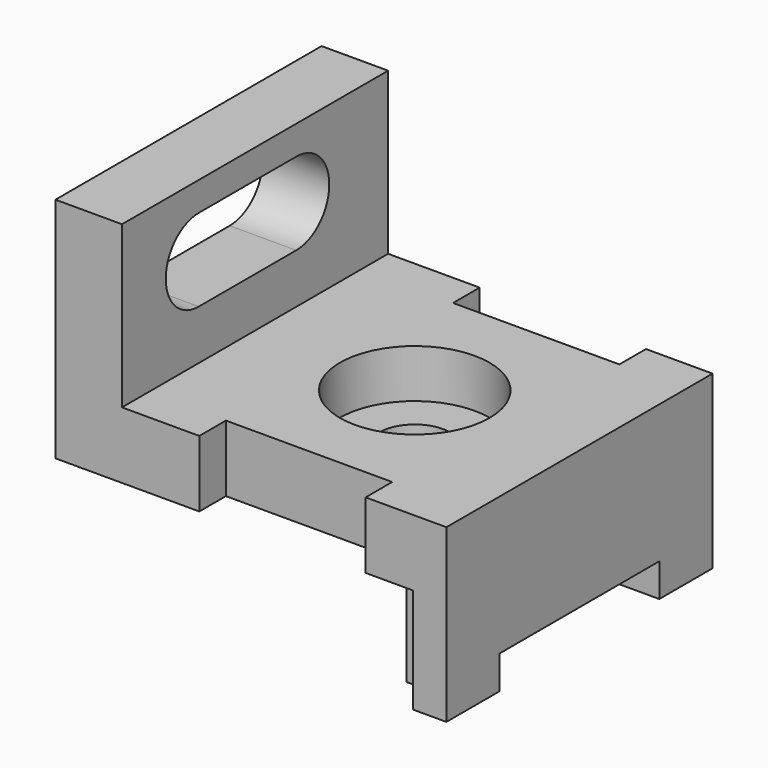
from build123d import *

# Parameters (mm, degrees)
F1_DEPTH  = 63.5
F2_W      = 31.75
F2_H      = 12.7
F2_W_2    = 6.35
F2_H_2    = 20.0227687303
F3_DEPTH  = 6.35
F4_W      = 38.1
F4_H      = 6.35
F5_DEPTH  = 74.629437754
F7_DEPTH  = 74.629437754
F8_R      = 14.2875
F8_R_2    = 6.7437
F9_DEPTH  = 9.2456
F10_R     = 6.7437
F11_DEPTH = 23.4781687303
F12_W     = 31.75
F12_H     = 12.7
F13_DEPTH = 6.35


with BuildPart() as f1:
    # F0 (on Front) → F1 (new body)
    with BuildSketch(Plane.XZ):
        Polygon((0, 43.474850689), (0, 0), (61.928437754, 0), (61.928437754, -20.0227687303), (74.628437754, -20.0227687303), (74.628437754, 12.7), (61.928437754, 12.7), (30.178437754, 12.7), (12.7, 12.7), (12.7, 43.474850689), align=None)
    extrude(amount=F1_DEPTH)

    # F2 (on face) → F3 (cut, symmetric)
    with BuildSketch(Plane.XZ.offset(63.5)):
        with Locations((43.3283648044, 6.35)):
            Rectangle(F2_W, F2_H)
        with Locations((65.103437754, -10.0113843652)):
            Rectangle(F2_W_2, F2_H_2)
    extrude(amount=F3_DEPTH, both=True, mode=Mode.SUBTRACT)

    # F4 (on face) → F5 (cut, through all)
    with BuildSketch(Plane.YZ.offset(74.628437754)):
        with Locations((-31.75, -16.8477687303)):
            Rectangle(F4_W, F4_H)
    extrude(amount=-F5_DEPTH, mode=Mode.SUBTRACT)

    # F6 (on Right) → F7 (cut, through all)
    with BuildSketch(Plane.YZ):
        with BuildLine():
            Line((-21.9217978256, 37.9429917058), (-45.1858863235, 37.9429917058))
            ThreePointArc((-45.1858863235, 37.9429917058), (-53.0598863235, 30.0689917058), (-45.1858863235, 22.1949917058))
            Line((-45.1858863235, 22.1949917058), (-21.9217978256, 22.1949917058))
            ThreePointArc((-21.9217978256, 22.1949917058), (-14.0477978256, 30.0689917058), (-21.9217978256, 37.9429917058))
        make_face()
    extrude(amount=F7_DEPTH, mode=Mode.SUBTRACT)

    # F8 (on face) → F9 (cut)
    with BuildSketch(Plane.XY.offset(12.7)):
        with Locations((43.3283648044, -31.9399088621)):
            Circle(F8_R)
        with Locations((43.3283648044, -31.9399088621)):
            Circle(F8_R_2, mode=Mode.SUBTRACT)
        with Locations((43.3283648044, -31.9399088621)):
            Circle(F8_R_2)
    extrude(amount=-F9_DEPTH, mode=Mode.SUBTRACT)

    # F10 (on face) → F11 (cut, through all)
    with BuildSketch(Plane.XY.offset(3.4544)):
        with Locations((43.3283648044, -31.9399088621)):
            Circle(F10_R)
    extrude(amount=-F11_DEPTH, mode=Mode.SUBTRACT)

    # F12 (on face) → F13 (cut, symmetric)
    with BuildSketch(Plane(origin=(0, 0, 0), x_dir=(-1, 0, 0), z_dir=(0, 1, 0))):
        with Locations((-46.053437754, 6.35)):
            Rectangle(F12_W, F12_H)
    extrude(amount=F13_DEPTH, both=True, mode=Mode.SUBTRACT)


solid = f1.part
